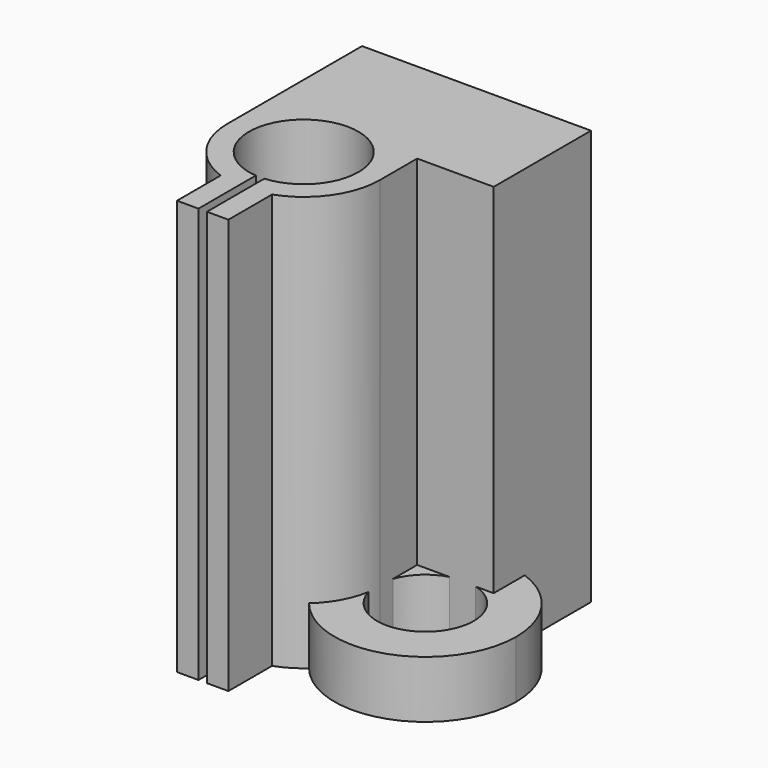
from build123d import *

# Parameters (mm, degrees)
F1_DEPTH = 58
F3_DEPTH = 8


with BuildPart() as f1:
    # F0 (on Top) → F1 (new body)
    with BuildSketch(Plane.XY):
        with BuildLine():
            Line((-10.65, 23.5), (-10.65, 0))
            ThreePointArc((-10.65, 0), (0, 10.65), (10.65, 0))
            Line((10.65, 0), (10.65, 6.5))
            Line((10.65, 6.5), (21.35, 6.5))
            Line((21.35, 6.5), (21.35, 23.5))
            Line((21.35, 23.5), (-10.65, 23.5))
        make_face()
        with BuildLine():
            ThreePointArc((-0.5934203427, -7.6269490818), (-5.1953264757, 5.6152544743), (7.65, 0))
            ThreePointArc((7.65, 0), (5.6152544743, -5.1953264757), (0.5934203427, -7.6269490818))
            Line((0.5934203427, -7.6269490818), (0.5934203427, -10.6334543915))
            ThreePointArc((0.5934203427, -10.6334543915), (2.1153778147, -10.4378003766), (3.5934203427, -10.0254591037))
            ThreePointArc((3.5934203427, -10.0254591037), (8.7089731499, -6.1299499733), (10.65, 0))
            ThreePointArc((10.65, 0), (0, 10.65), (-10.65, 0))
            ThreePointArc((-10.65, 0), (-8.7089731499, -6.1299499733), (-3.5934203427, -10.0254591037))
            ThreePointArc((-3.5934203427, -10.0254591037), (-2.1153778147, -10.4378003766), (-0.5934203427, -10.6334543915))
            Line((-0.5934203427, -10.6334543915), (-0.5934203427, -7.6269490818))
        make_face()
        with BuildLine():
            ThreePointArc((3.5934203427, -10.0254591037), (2.1153778147, -10.4378003766), (0.5934203427, -10.6334543915))
            Line((0.5934203427, -10.6334543915), (0.5934203427, -17.65))
            Line((0.5934203427, -17.65), (3.5934203427, -17.65))
            Line((3.5934203427, -17.65), (3.5934203427, -10.0254591037))
        make_face()
        with BuildLine():
            Line((-0.5934203427, -17.65), (-0.5934203427, -10.6334543915))
            ThreePointArc((-0.5934203427, -10.6334543915), (-2.1153778147, -10.4378003766), (-3.5934203427, -10.0254591037))
            Line((-3.5934203427, -10.0254591037), (-3.5934203427, -17.65))
            Line((-3.5934203427, -17.65), (-0.5934203427, -17.65))
        make_face()
    extrude(amount=F1_DEPTH)

    # F2 (on face) → F3 (join)
    with BuildSketch(Plane(origin=(0, 0, 0), x_dir=(1, 0, 0), z_dir=(0, 0, -1))):
        with BuildLine():
            ThreePointArc((21.35, -11.9317852813), (27.4051669857, -7.2816550317), (29.7, 0))
            ThreePointArc((29.7, 0), (21.2107054565, 11.981650953), (7.0921323529, 7.9450713457))
            ThreePointArc((7.0921323529, 7.9450713457), (9.3144454851, 5.1636813713), (10.4958823529, 1.8052572208))
            ThreePointArc((10.4958823529, 1.8052572208), (17.9109626453, 6.6882469346), (23.75, 0))
            ThreePointArc((23.75, 0), (22.3780891327, -4.079051027), (18.8200274723, -6.5))
            Line((18.8200274723, -6.5), (21.35, -6.5))
            Line((21.35, -6.5), (21.35, -11.9317852813))
        make_face()
        with BuildLine():
            ThreePointArc((15.1799725277, -6.5), (12.4043229898, -4.9439106806), (10.65, -2.2891046285))
            Line((10.65, -2.2891046285), (10.65, -6.5))
            Line((10.65, -6.5), (15.1799725277, -6.5))
        make_face()
    extrude(amount=-F3_DEPTH)


solid = f1.part
